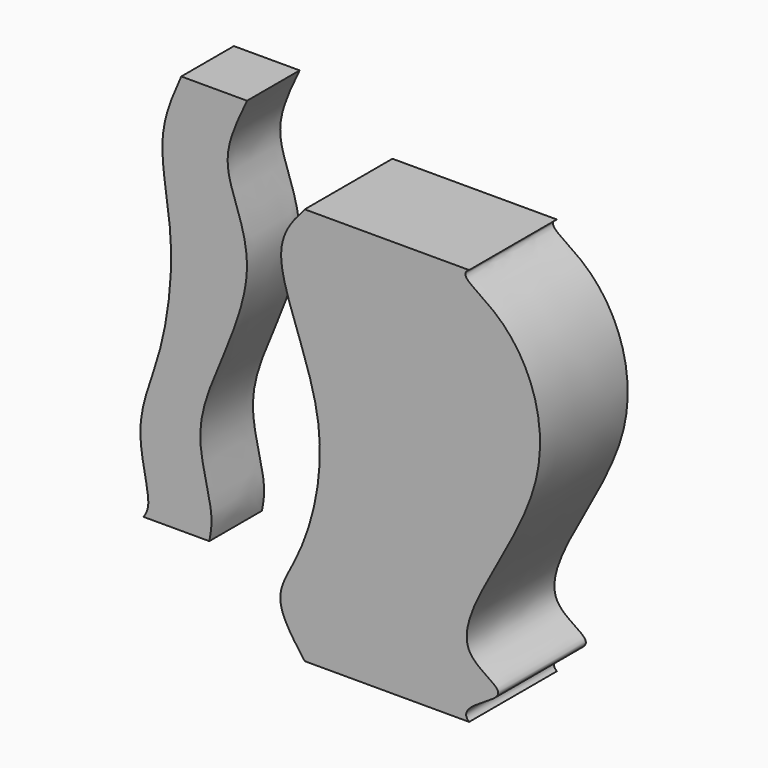
from build123d import *

# Parameters (mm, degrees)
F1_DEPTH = 25.4
F3_DEPTH = 15.24


with BuildPart() as f1:
    # F0 (on Front) → F1 (new body)
    with BuildSketch(Plane.XZ):
        with BuildLine():
            add(Edge.make_bspline(
                [(-26.7757208362, 49.5906658471), (-29.4809443264, 46.4900867349), (-36.568471634, 38.3667508233), (-18.9656888578, 8.2516869195), (-26.8815007807, -21.0584272628), (-34.8782052109, -31.6703172865), (-29.5088607469, -38.9067344102), (-26.7757208362, -42.590264231)],
                knots=[0, 0, 0, 0, 0.1628390599, 0.426628812, 0.6809063503, 0.8375727996, 1, 1, 1, 1], degree=3))
            Line((-26.7757208362, -42.590264231), (11.3242791638, -42.590264231))
            add(Edge.make_bspline(
                [(11.3242791638, 49.5906658471), (8.4071408109, 47.9277787085), (22.5382459179, 42.716057086), (35.7695299929, 10.6490140265), (0.5867508662, -28.5693047331), (25.1577329611, -34.4312103914), (8.1470175362, -39.8282469978), (11.3242791638, -42.590264231)],
                knots=[0, 0, 0, 0, 0.1401676055, 0.4080516336, 0.7085663312, 0.8527147924, 1, 1, 1, 1], degree=3))
            Line((11.3242791638, 49.5906658471), (-26.7757208362, 49.5906658471))
        make_face()
    extrude(amount=F1_DEPTH)


with BuildPart() as f3:
    # F2 (on Front) → F3 (new body)
    with BuildSketch(Plane.XZ):
        with BuildLine():
            Line((-48.2769048608, 60.6220087062), (-63.5169048608, 60.6220087062))
            add(Edge.make_bspline(
                [(-63.5169048608, 60.6220087062), (-65.5012058306, 56.1450527347), (-69.7948582121, 46.4577658955), (-64.4385222623, 26.8580797393), (-67.6282455856, 1.9810735135), (-75.1827873042, -13.6624417833), (-70.1080625477, -28.7002323769), (-71.7285721327, -31.2421823122), (-72.2578167915, -32.0723615587)],
                knots=[0, 0, 0, 0, 0.1659506393, 0.3590858284, 0.5754223766, 0.7577758436, 0.920891649, 1, 1, 1, 1], degree=3))
            Line((-72.2578167915, -32.0723615587), (-57.0178167915, -32.0723615587))
            add(Edge.make_bspline(
                [(-48.2769048608, 60.6220087062), (-49.4912365365, 58.0667478252), (-51.9295557799, 52.9359076252), (-54.0105434493, 43.7893128984), (-43.9956402411, 26.6199725517), (-57.4588087467, 0.1918028014), (-60.2205238411, -12.9096709985), (-55.8478950033, -25.9503742449), (-56.6805387672, -30.3074471798), (-57.0178167915, -32.0723615587)],
                knots=[0, 0, 0, 0, 0.1154537632, 0.2318255696, 0.400981275, 0.6124822087, 0.7607348311, 0.9030811411, 1, 1, 1, 1], degree=3))
        make_face()
    extrude(amount=F3_DEPTH)


solid = Compound([f1.part, f3.part])
